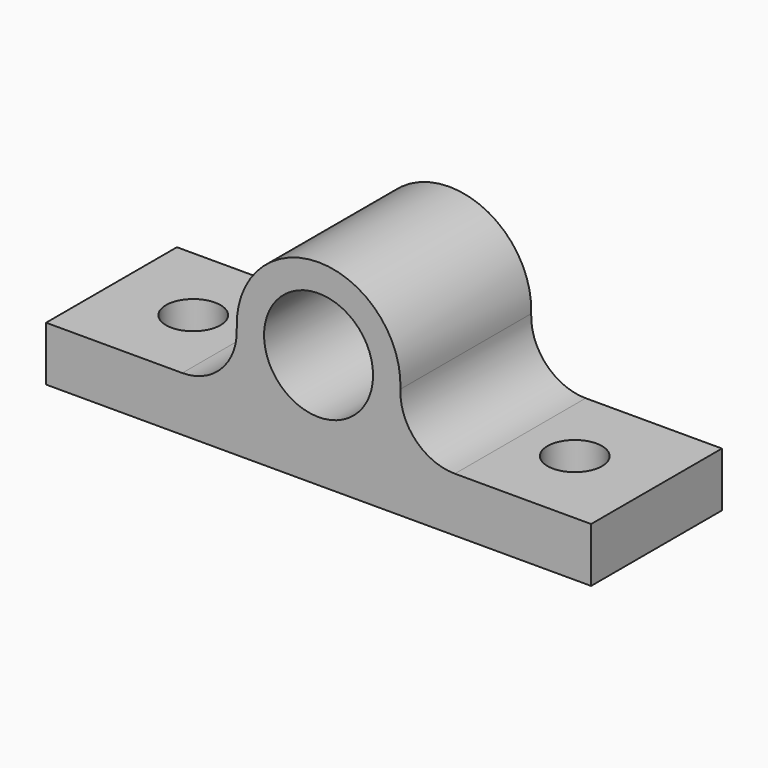
from build123d import *

# Parameters (mm, degrees)
F0_R     = 12.7
F1_DEPTH = 38.1
F2_R     = 6.35
F3_R     = 6.35
F4_DEPTH = 12.7


with BuildPart() as f1:
    # F0 (on Front) → F1 (new body)
    with BuildSketch(Plane.XZ):
        with BuildLine():
            Line((-127, 0), (0, 0))
            Line((0, 0), (0, 12.7))
            Line((0, 12.7), (-31.75, 12.7))
            ThreePointArc((-31.75, 12.7), (-40.908636, 16.60174), (-44.439774, 25.909547))
            ThreePointArc((-44.439774, 25.909547), (-63.506386, 45.757127), (-82.572999, 25.909547))
            ThreePointArc((-82.572999, 25.909547), (-86.104136, 16.60174), (-95.262773, 12.7))
            Line((-95.262773, 12.7), (-127, 12.7))
            Line((-127, 12.7), (-127, 0))
        make_face()
        with Locations((-63.506386, 26.67515)):
            Circle(F0_R, mode=Mode.SUBTRACT)
    extrude(amount=-F1_DEPTH)

    # F2 (on face) + F3 (on face) → F4 (cut)
    with BuildSketch(Plane.XY.offset(12.7)):
        with Locations((-19.05, 19.05)):
            Circle(F2_R)
    with BuildSketch(Plane.XY.offset(12.7)):
        with Locations((-107.95, 19.05)):
            Circle(F3_R)
    extrude(amount=-F4_DEPTH, mode=Mode.SUBTRACT)


solid = f1.part
